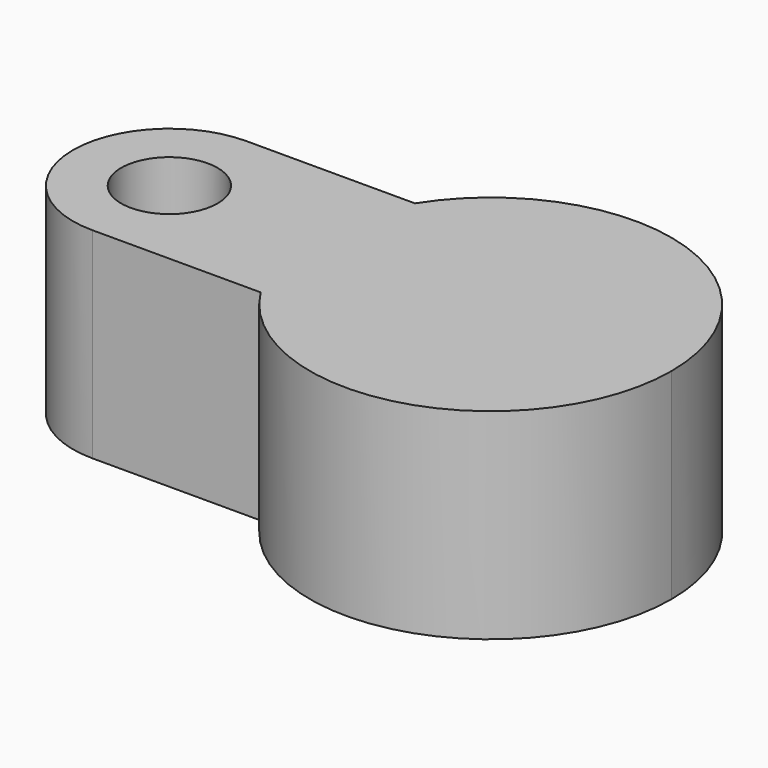
from build123d import *

# Parameters (mm, degrees)
F0_R     = 6
F1_DEPTH = 25


with BuildPart() as f1:
    # F0 (on Top) → F1 (new body)
    with BuildSketch(Plane.XY):
        with BuildLine():
            ThreePointArc((-19.032866, -12), (6.245419, -21.615845), (22.5, 0))
            ThreePointArc((22.5, 0), (6.245419, 21.615845), (-19.032866, 12))
            ThreePointArc((-19.032866, 12), (-22.5, 0), (-19.032866, -12))
        make_face()
        with BuildLine():
            ThreePointArc((-19.032866, -12), (-22.5, 0), (-19.032866, 12))
            Line((-19.032866, 12), (-40, 12))
            ThreePointArc((-40, 12), (-52, 0), (-40, -12))
            Line((-40, -12), (-19.032866, -12))
        make_face()
        with Locations((-40, 0)):
            Circle(F0_R, mode=Mode.SUBTRACT)
    extrude(amount=F1_DEPTH)


solid = f1.part
